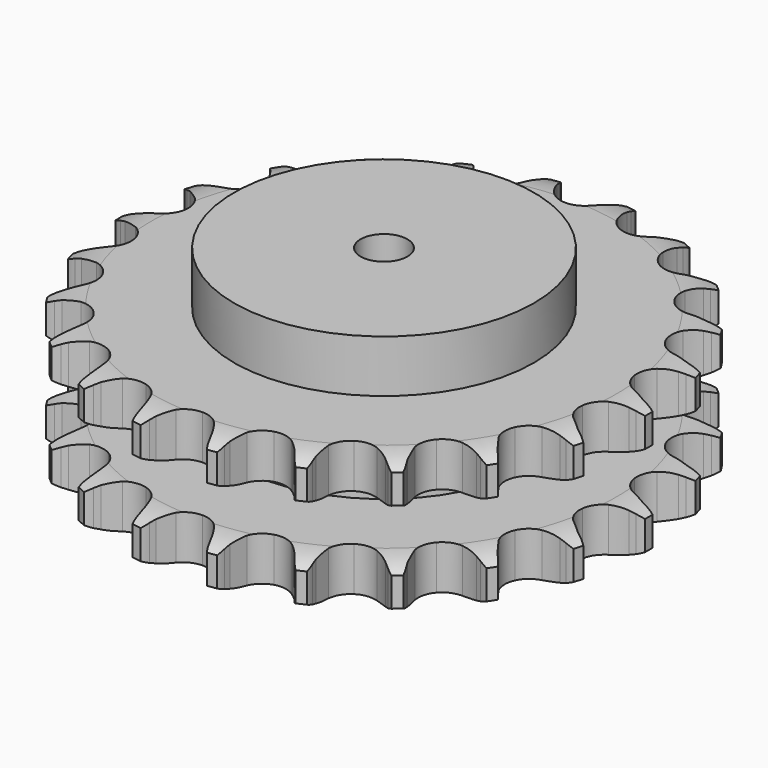
from build123d import *

# Parameters (mm, degrees)
PAD_DEPTH         = 72
SKETCH001_R       = 80
PAD001_DEPTH      = 100
SKETCH002_R       = 12.5
POCKET_DEPTH      = 0.001
POCKET_DEPTH_BACK = 100.001


with BuildPart() as part:
    # Sprocket → Pad (new body)
    with BuildSketch(Plane.XY):
        with BuildLine():
            ThreePointArc((-20.692331, 143.918322), (-17.874058, 140.584566), (-15.807705, 136.739208))
            Line((-15.807705, 136.739208), (-14.57866, 133.738417))
            ThreePointArc((-14.57866, 133.738417), (-12.612402, 129.731224), (-10.1252, 126.024798))
            ThreePointArc((-10.1252, 126.024798), (-5.63922, 122.36553), (0, 121.056543))
            ThreePointArc((0, 121.056543), (5.63922, 122.36553), (10.1252, 126.024798))
            ThreePointArc((10.1252, 126.024798), (12.612402, 129.731224), (14.57866, 133.738417))
            Line((14.57866, 133.738417), (15.807705, 136.739208))
            ThreePointArc((15.807705, 136.739208), (17.874058, 140.584566), (20.692331, 143.918322))
            ThreePointArc((20.692331, 143.918322), (22.457216, 139.925607), (23.356505, 135.653854))
            Line((23.356505, 135.653854), (23.690345, 132.428355))
            ThreePointArc((23.690345, 132.428355), (24.447999, 128.029522), (25.790231, 123.772507))
            ThreePointArc((25.790231, 123.772507), (29.063561, 118.997618), (34.105569, 116.152903))
            ThreePointArc((34.105569, 116.152903), (39.885146, 115.820114), (45.220347, 118.06731))
            Line((45.220347, 118.06731), (51.666588, 124.213789))
            ThreePointArc((51.666588, 124.213789), (52.647911, 125.505069), (53.691269, 126.746764))
            ThreePointArc((53.691269, 126.746764), (56.757282, 129.854199), (60.400623, 132.258916))
            ThreePointArc((60.400623, 132.258916), (60.969141, 127.930708), (60.628509, 123.578632))
            Line((60.628509, 123.578632), (60.040098, 120.389734))
            ThreePointArc((60.040098, 120.389734), (59.527768, 115.95563), (59.61629, 111.492903))
            ThreePointArc((59.61629, 111.492903), (61.411786, 105.989227), (65.448108, 101.839245))
            ThreePointArc((65.448108, 101.839245), (70.899814, 99.891642), (76.65201, 100.54471))
            Line((76.65201, 100.54471), (84.568796, 104.626097))
            ThreePointArc((84.568796, 104.626097), (85.874165, 105.588601), (87.225085, 106.486051))
            ThreePointArc((87.225085, 106.486051), (91.042369, 108.603818), (95.215616, 109.884678))
            ThreePointArc((95.215616, 109.884678), (94.541707, 105.571624), (92.988752, 101.491804))
            Line((92.988752, 101.491804), (91.52576, 98.597854))
            ThreePointArc((91.52576, 98.597854), (89.784951, 94.487702), (88.612592, 90.180807))
            ThreePointArc((88.612592, 90.180807), (88.784793, 84.394219), (91.488431, 79.275177))
            ThreePointArc((91.488431, 79.275177), (96.170601, 75.870542), (101.873783, 74.876576))
            Line((101.873783, 74.876576), (110.619744, 76.562222))
            ThreePointArc((110.619744, 76.562222), (112.143404, 77.117973), (113.692443, 77.598471))
            ThreePointArc((113.692443, 77.598471), (117.951744, 78.555001), (122.316806, 78.608238))
            ThreePointArc((122.316806, 78.608238), (120.455067, 74.659754), (117.8156, 71.182714))
            Line((117.8156, 71.182714), (115.596549, 68.818162))
            ThreePointArc((115.596549, 68.818162), (112.768291, 65.364942), (110.430029, 61.562799))
            ThreePointArc((110.430029, 61.562799), (108.964984, 55.962094), (110.116905, 50.288705))
            ThreePointArc((110.116905, 50.288705), (113.650218, 45.702863), (118.842349, 43.142388))
            Line((118.842349, 43.142388), (127.708937, 42.295731))
            ThreePointArc((127.708937, 42.295731), (129.327452, 42.399705), (130.949116, 42.424325))
            ThreePointArc((130.949116, 42.424325), (135.305371, 42.142125), (139.508616, 40.963426))
            ThreePointArc((139.508616, 40.963426), (136.609874, 37.699395), (133.097729, 35.106824))
            Line((133.097729, 35.106824), (130.302393, 33.463231))
            ThreePointArc((130.302393, 33.463231), (126.615816, 30.946704), (123.301081, 27.957338))
            ThreePointArc((123.301081, 27.957338), (120.317481, 22.996252), (119.824362, 17.228142))
            ThreePointArc((119.824362, 17.228142), (121.92257, 11.832609), (126.183014, 7.913059))
            Line((126.183014, 7.913059), (134.451913, 4.602691))
            ThreePointArc((134.451913, 4.602691), (136.034159, 4.246465), (137.597071, 3.813213))
            ThreePointArc((137.597071, 3.813213), (141.697361, 2.315144), (145.398267, 0))
            ThreePointArc((145.398267, 0), (141.697361, -2.315144), (137.597071, -3.813213))
            Line((137.597071, -3.813213), (134.451913, -4.602691))
            ThreePointArc((134.451913, -4.602691), (130.205679, -5.978653), (126.183014, -7.913059))
            ThreePointArc((126.183014, -7.913059), (121.92257, -11.832609), (119.824362, -17.228142))
            ThreePointArc((119.824362, -17.228142), (120.317481, -22.996252), (123.301081, -27.957338))
            Line((123.301081, -27.957338), (130.302393, -33.463231))
            ThreePointArc((130.302393, -33.463231), (131.720187, -34.250798), (133.097729, -35.106824))
            ThreePointArc((133.097729, -35.106824), (136.609874, -37.699395), (139.508616, -40.963426))
            ThreePointArc((139.508616, -40.963426), (135.305371, -42.142125), (130.949116, -42.424325))
            Line((130.949116, -42.424325), (127.708937, -42.295731))
            ThreePointArc((127.708937, -42.295731), (123.247053, -42.419654), (118.842349, -43.142388))
            ThreePointArc((118.842349, -43.142388), (113.650218, -45.702863), (110.116905, -50.288705))
            ThreePointArc((110.116905, -50.288705), (108.964984, -55.962094), (110.430029, -61.562799))
            Line((110.430029, -61.562799), (115.596549, -68.818162))
            ThreePointArc((115.596549, -68.818162), (116.735029, -69.973265), (117.8156, -71.182714))
            ThreePointArc((117.8156, -71.182714), (120.455067, -74.659754), (122.316806, -78.608238))
            ThreePointArc((122.316806, -78.608238), (117.951744, -78.555001), (113.692443, -77.598471))
            Line((113.692443, -77.598471), (110.619744, -76.562222))
            ThreePointArc((110.619744, -76.562222), (106.303684, -75.424068), (101.873783, -74.876576))
            ThreePointArc((101.873783, -74.876576), (96.170601, -75.870542), (91.488431, -79.275177))
            ThreePointArc((91.488431, -79.275177), (88.784793, -84.394219), (88.612592, -90.180807))
            Line((88.612592, -90.180807), (91.52576, -98.597854))
            ThreePointArc((91.52576, -98.597854), (92.292694, -100.026914), (92.988752, -101.491804))
            ThreePointArc((92.988752, -101.491804), (94.541707, -105.571624), (95.215616, -109.884678))
            ThreePointArc((95.215616, -109.884678), (91.042369, -108.603818), (87.225085, -106.486051))
            Line((87.225085, -106.486051), (84.568796, -104.626097))
            ThreePointArc((84.568796, -104.626097), (80.748222, -102.318072), (76.65201, -100.54471))
            ThreePointArc((76.65201, -100.54471), (70.899814, -99.891642), (65.448108, -101.839245))
            ThreePointArc((65.448108, -101.839245), (61.411786, -105.989227), (59.61629, -111.492903))
            Line((59.61629, -111.492903), (60.040098, -120.389734))
            ThreePointArc((60.040098, -120.389734), (60.373353, -121.976978), (60.628509, -123.578632))
            ThreePointArc((60.628509, -123.578632), (60.969141, -127.930708), (60.400623, -132.258916))
            ThreePointArc((60.400623, -132.258916), (56.757282, -129.854199), (53.691269, -126.746764))
            Line((53.691269, -126.746764), (51.666588, -124.213789))
            ThreePointArc((51.666588, -124.213789), (48.65102, -120.922874), (45.220347, -118.06731))
            ThreePointArc((45.220347, -118.06731), (39.885146, -115.820114), (34.105569, -116.152903))
            ThreePointArc((34.105569, -116.152903), (29.063561, -118.997618), (25.790231, -123.772507))
            Line((25.790231, -123.772507), (23.690345, -132.428355))
            ThreePointArc((23.690345, -132.428355), (23.562922, -134.045192), (23.356505, -135.653854))
            ThreePointArc((23.356505, -135.653854), (22.457216, -139.925607), (20.692331, -143.918322))
            ThreePointArc((20.692331, -143.918322), (17.874058, -140.584566), (15.807705, -136.739208))
            Line((15.807705, -136.739208), (14.57866, -133.738417))
            ThreePointArc((14.57866, -133.738417), (12.612402, -129.731224), (10.1252, -126.024798))
            ThreePointArc((10.1252, -126.024798), (5.63922, -122.36553), (0, -121.056543))
            ThreePointArc((0, -121.056543), (-5.63922, -122.36553), (-10.1252, -126.024798))
            Line((-10.1252, -126.024798), (-14.57866, -133.738417))
            ThreePointArc((-14.57866, -133.738417), (-15.156437, -135.253862), (-15.807705, -136.739208))
            ThreePointArc((-15.807705, -136.739208), (-17.874058, -140.584566), (-20.692331, -143.918322))
            ThreePointArc((-20.692331, -143.918322), (-22.457216, -139.925607), (-23.356505, -135.653854))
            Line((-23.356505, -135.653854), (-23.690345, -132.428355))
            ThreePointArc((-23.690345, -132.428355), (-24.447999, -128.029522), (-25.790231, -123.772507))
            ThreePointArc((-25.790231, -123.772507), (-29.063561, -118.997618), (-34.105569, -116.152903))
            ThreePointArc((-34.105569, -116.152903), (-39.885146, -115.820114), (-45.220347, -118.06731))
            Line((-45.220347, -118.06731), (-51.666588, -124.213789))
            ThreePointArc((-51.666588, -124.213789), (-52.647911, -125.505069), (-53.691269, -126.746764))
            ThreePointArc((-53.691269, -126.746764), (-56.757282, -129.854199), (-60.400623, -132.258916))
            ThreePointArc((-60.400623, -132.258916), (-60.969141, -127.930708), (-60.628509, -123.578632))
            Line((-60.628509, -123.578632), (-60.040098, -120.389734))
            ThreePointArc((-60.040098, -120.389734), (-59.527768, -115.95563), (-59.61629, -111.492903))
            ThreePointArc((-59.61629, -111.492903), (-61.411786, -105.989227), (-65.448108, -101.839245))
            ThreePointArc((-65.448108, -101.839245), (-70.899814, -99.891642), (-76.65201, -100.54471))
            Line((-76.65201, -100.54471), (-84.568796, -104.626097))
            ThreePointArc((-84.568796, -104.626097), (-85.874165, -105.588601), (-87.225085, -106.486051))
            ThreePointArc((-87.225085, -106.486051), (-91.042369, -108.603818), (-95.215616, -109.884678))
            ThreePointArc((-95.215616, -109.884678), (-94.541707, -105.571624), (-92.988752, -101.491804))
            Line((-92.988752, -101.491804), (-91.52576, -98.597854))
            ThreePointArc((-91.52576, -98.597854), (-89.784951, -94.487702), (-88.612592, -90.180807))
            ThreePointArc((-88.612592, -90.180807), (-88.784793, -84.394219), (-91.488431, -79.275177))
            ThreePointArc((-91.488431, -79.275177), (-96.170601, -75.870542), (-101.873783, -74.876576))
            Line((-101.873783, -74.876576), (-110.619744, -76.562222))
            ThreePointArc((-110.619744, -76.562222), (-112.143404, -77.117973), (-113.692443, -77.598471))
            ThreePointArc((-113.692443, -77.598471), (-117.951744, -78.555001), (-122.316806, -78.608238))
            ThreePointArc((-122.316806, -78.608238), (-120.455067, -74.659754), (-117.8156, -71.182714))
            Line((-117.8156, -71.182714), (-115.596549, -68.818162))
            ThreePointArc((-115.596549, -68.818162), (-112.768291, -65.364942), (-110.430029, -61.562799))
            ThreePointArc((-110.430029, -61.562799), (-108.964984, -55.962094), (-110.116905, -50.288705))
            ThreePointArc((-110.116905, -50.288705), (-113.650218, -45.702863), (-118.842349, -43.142388))
            Line((-118.842349, -43.142388), (-127.708937, -42.295731))
            ThreePointArc((-127.708937, -42.295731), (-129.327452, -42.399705), (-130.949116, -42.424325))
            ThreePointArc((-130.949116, -42.424325), (-135.305371, -42.142125), (-139.508616, -40.963426))
            ThreePointArc((-139.508616, -40.963426), (-136.609874, -37.699395), (-133.097729, -35.106824))
            Line((-133.097729, -35.106824), (-130.302393, -33.463231))
            ThreePointArc((-130.302393, -33.463231), (-126.615816, -30.946704), (-123.301081, -27.957338))
            ThreePointArc((-123.301081, -27.957338), (-120.317481, -22.996252), (-119.824362, -17.228142))
            ThreePointArc((-119.824362, -17.228142), (-121.92257, -11.832609), (-126.183014, -7.913059))
            Line((-126.183014, -7.913059), (-134.451913, -4.602691))
            ThreePointArc((-134.451913, -4.602691), (-136.034159, -4.246465), (-137.597071, -3.813213))
            ThreePointArc((-137.597071, -3.813213), (-141.697361, -2.315144), (-145.398267, 0))
            ThreePointArc((-145.398267, 0), (-141.697361, 2.315144), (-137.597071, 3.813213))
            Line((-137.597071, 3.813213), (-134.451913, 4.602691))
            ThreePointArc((-134.451913, 4.602691), (-130.205679, 5.978653), (-126.183014, 7.913059))
            ThreePointArc((-126.183014, 7.913059), (-121.92257, 11.832609), (-119.824362, 17.228142))
            ThreePointArc((-119.824362, 17.228142), (-120.317481, 22.996252), (-123.301081, 27.957338))
            Line((-123.301081, 27.957338), (-130.302393, 33.463231))
            ThreePointArc((-130.302393, 33.463231), (-131.720187, 34.250798), (-133.097729, 35.106824))
            ThreePointArc((-133.097729, 35.106824), (-136.609874, 37.699395), (-139.508616, 40.963426))
            ThreePointArc((-139.508616, 40.963426), (-135.305371, 42.142125), (-130.949116, 42.424325))
            Line((-130.949116, 42.424325), (-127.708937, 42.295731))
            ThreePointArc((-127.708937, 42.295731), (-123.247053, 42.419654), (-118.842349, 43.142388))
            ThreePointArc((-118.842349, 43.142388), (-113.650218, 45.702863), (-110.116905, 50.288705))
            ThreePointArc((-110.116905, 50.288705), (-108.964984, 55.962094), (-110.430029, 61.562799))
            Line((-110.430029, 61.562799), (-115.596549, 68.818162))
            ThreePointArc((-115.596549, 68.818162), (-116.735029, 69.973265), (-117.8156, 71.182714))
            ThreePointArc((-117.8156, 71.182714), (-120.455067, 74.659754), (-122.316806, 78.608238))
            ThreePointArc((-122.316806, 78.608238), (-117.951744, 78.555001), (-113.692443, 77.598471))
            Line((-113.692443, 77.598471), (-110.619744, 76.562222))
            ThreePointArc((-110.619744, 76.562222), (-106.303684, 75.424068), (-101.873783, 74.876576))
            ThreePointArc((-101.873783, 74.876576), (-96.170601, 75.870542), (-91.488431, 79.275177))
            ThreePointArc((-91.488431, 79.275177), (-88.784793, 84.394219), (-88.612592, 90.180807))
            Line((-88.612592, 90.180807), (-91.52576, 98.597854))
            ThreePointArc((-91.52576, 98.597854), (-92.292694, 100.026914), (-92.988752, 101.491804))
            ThreePointArc((-92.988752, 101.491804), (-94.541707, 105.571624), (-95.215616, 109.884678))
            ThreePointArc((-95.215616, 109.884678), (-91.042369, 108.603818), (-87.225085, 106.486051))
            Line((-87.225085, 106.486051), (-84.568796, 104.626097))
            ThreePointArc((-84.568796, 104.626097), (-80.748222, 102.318072), (-76.65201, 100.54471))
            ThreePointArc((-76.65201, 100.54471), (-70.899814, 99.891642), (-65.448108, 101.839245))
            ThreePointArc((-65.448108, 101.839245), (-61.411786, 105.989227), (-59.61629, 111.492903))
            Line((-59.61629, 111.492903), (-60.040098, 120.389734))
            ThreePointArc((-60.040098, 120.389734), (-60.373353, 121.976978), (-60.628509, 123.578632))
            ThreePointArc((-60.628509, 123.578632), (-60.969141, 127.930708), (-60.400623, 132.258916))
            ThreePointArc((-60.400623, 132.258916), (-56.757282, 129.854199), (-53.691269, 126.746764))
            Line((-53.691269, 126.746764), (-51.666588, 124.213789))
            ThreePointArc((-51.666588, 124.213789), (-48.65102, 120.922874), (-45.220347, 118.06731))
            ThreePointArc((-45.220347, 118.06731), (-39.885146, 115.820114), (-34.105569, 116.152903))
            ThreePointArc((-34.105569, 116.152903), (-29.063561, 118.997618), (-25.790231, 123.772507))
            Line((-25.790231, 123.772507), (-23.690345, 132.428355))
            ThreePointArc((-23.690345, 132.428355), (-23.562922, 134.045192), (-23.356505, 135.653854))
            ThreePointArc((-23.356505, 135.653854), (-22.457216, 139.925607), (-20.692331, 143.918322))
        make_face()
    extrude(amount=PAD_DEPTH)

    # Sketch → Groove (revolve, cut)
    with BuildSketch(Plane.XZ):
        with BuildLine():
            ThreePointArc((124.379437, 0), (133.097235, 1.013516), (141.35, 4))
            Line((141.35, 4), (141.35, 19.6))
            ThreePointArc((141.35, 19.6), (133.097235, 22.586484), (124.379437, 23.6))
            Line((80, 23.6), (124.379437, 23.6))
            Line((80, 48.4), (80, 23.6))
            Line((124.379437, 48.4), (80, 48.4))
            ThreePointArc((124.379437, 48.4), (133.097235, 49.413516), (141.35, 52.4))
            Line((141.35, 52.4), (141.35, 68))
            ThreePointArc((141.35, 68), (133.097235, 70.986484), (124.379437, 72))
            Line((124.379437, 72), (151.35, 72))
            Line((151.35, 72), (151.35, 0))
            Line((124.379437, 0), (151.35, 0))
        make_face()
    revolve(axis=Axis((0, 0, 0), (0, 0, 1)), mode=Mode.SUBTRACT)

    # Sketch001 → Pad001 (join)
    with BuildSketch(Plane.XY):
        Circle(SKETCH001_R)
    extrude(amount=PAD001_DEPTH)

    # Sketch002 → Pocket (cut, two sides)
    with BuildSketch(Plane.XY) as pocket_sk:
        Circle(SKETCH002_R)
    extrude(amount=-POCKET_DEPTH, mode=Mode.SUBTRACT)
    extrude(pocket_sk.sketch, amount=POCKET_DEPTH_BACK, mode=Mode.SUBTRACT)


solid = part.part
